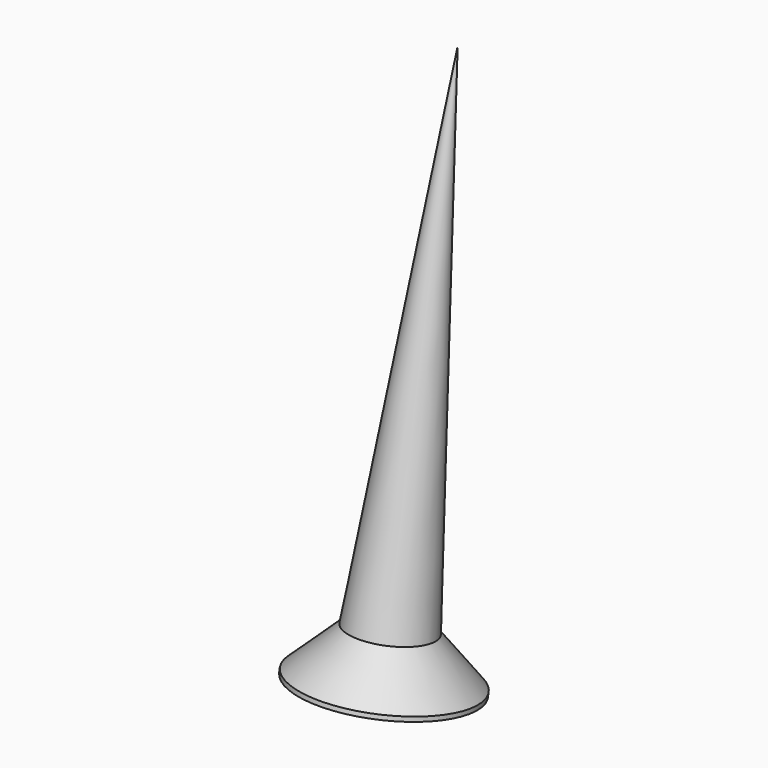
from build123d import *

# Parameters (mm, degrees)
POCKET005_DEPTH         = 0.2
POLARPATTERN002_COUNT   = 2
POLARPATTERN002_ANGLE   = 90
BODY008_ROLL_ANGLE      = -170
BODY008_PLACEMENT_ANGLE = 180


with BuildPart() as part:
    # Sketch024 → Revolution002 (revolve)
    with BuildSketch(Plane.XZ):
        Polygon((0, 0), (0, -12), (0.9, -1.05), (1.85, -0.1), (1.85, 0), align=None)
    revolve(axis=Axis((0, 0, 0), (0, 0, 1)))

    # Sketch025 → Pocket005 (cut, symmetric)
    with BuildSketch(Plane.XZ):
        Polygon((-1.15, 0), (0, -1.15), (1.15, 0), align=None)
    pocket005 = extrude(amount=POCKET005_DEPTH, both=True, mode=Mode.SUBTRACT)

    # PolarPattern002: Pocket005 ×2 about axis
    polarpattern002_axis = Axis((0, 0, 0), (0, 0, 1))
    for i in range(1, POLARPATTERN002_COUNT):
        add(pocket005.rotate(polarpattern002_axis, i * POLARPATTERN002_ANGLE / (POLARPATTERN002_COUNT - 1)), mode=Mode.SUBTRACT)


with BuildPart() as part_1:
    # Body008 roll: moved
    add(part.part.rotate(Axis((0, 0, 0), (1, 0, 0)), BODY008_ROLL_ANGLE))


with BuildPart() as part_2:
    # Body008 placement: moved
    add(part_1.part.moved(Location((20.5, 7.5, 1))).rotate(Axis((20.5, 7.5, 1), (0, 0, 1)), BODY008_PLACEMENT_ANGLE))


solid = part_2.part
